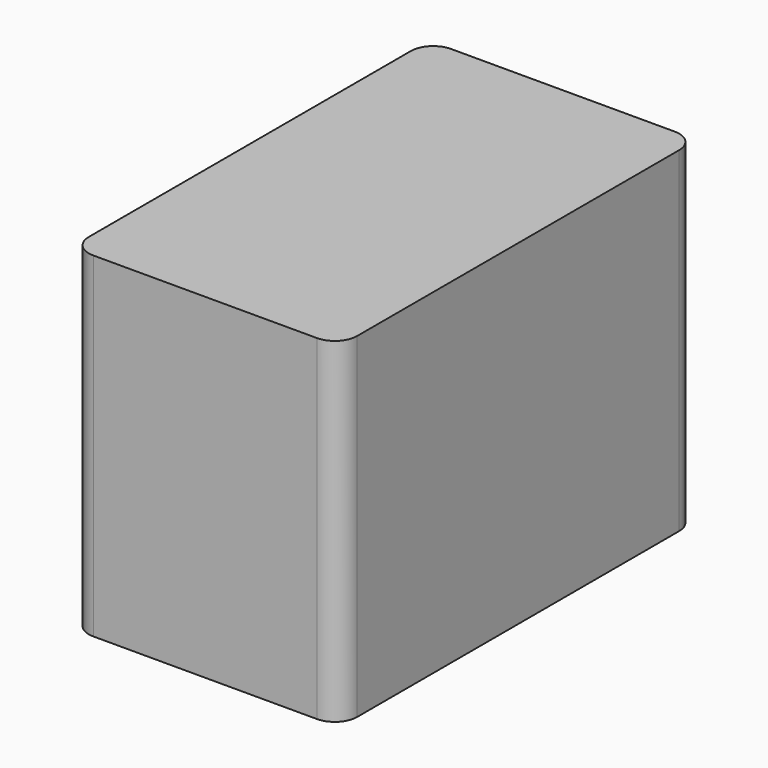
from build123d import *

# Parameters (mm, degrees)
F0_W     = 120
F0_H     = 200
F1_DEPTH = 150
F2_R     = 10


with BuildPart() as f1:
    # F0 (on Top) → F1 (new body)
    with BuildSketch(Plane.XY):
        with Locations((60, 100)):
            Rectangle(F0_W, F0_H)
    extrude(amount=-F1_DEPTH)

    # F2
    f2_edges = [f1.edges().sort_by_distance(p)[0] for p in [
        (120, 200, -75),
        (0, 200, -75),
        (0, 0, -75),
        (120, 0, -75),
    ]]
    fillet(f2_edges, radius=F2_R)


solid = f1.part
